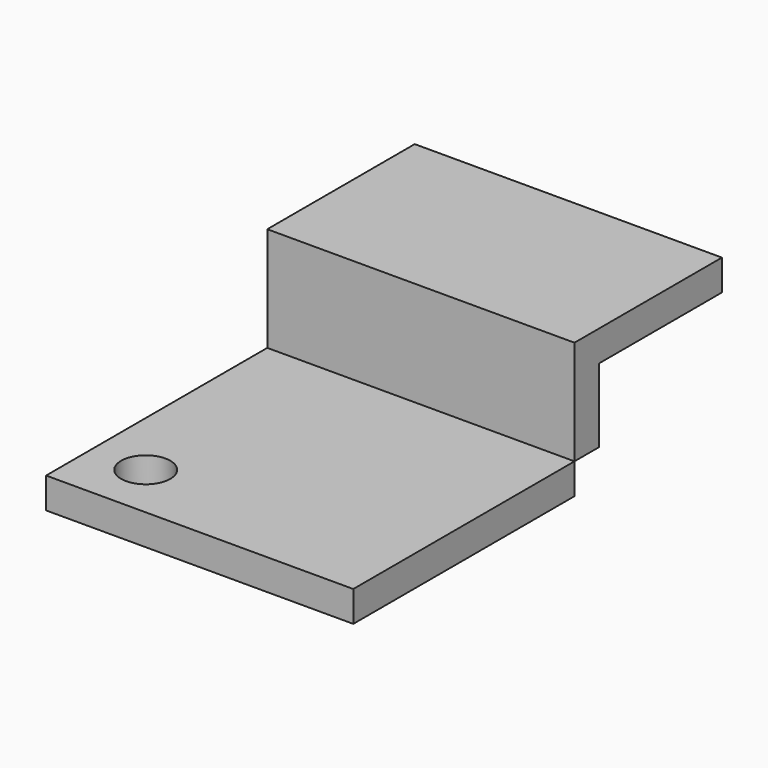
from build123d import *

# Parameters (mm, degrees)
F0_W     = 500
F0_H     = 50.000004
F1_DEPTH = 450
F2_W     = 500
F2_H     = 170
F3_DEPTH = 50
F4_W     = 500
F4_H     = 250
F5_DEPTH = 50
F7_D     = 80


with BuildPart() as f1:
    # F0 (on Front) → F1 (new body)
    with BuildSketch(Plane.XZ):
        with Locations((-250, 25.000002)):
            Rectangle(F0_W, F0_H)
        with Locations((-250, 25.000002)):
            Rectangle(F0_W, F0_H)
    extrude(amount=-F1_DEPTH)

    # F7 (through all)
    with Locations(Plane.XY.offset(50.000004)):
        with Locations((-410.956919, 91.40674)):
            Hole(F7_D / 2)


with BuildPart() as f3:
    # F2 (on face) → F3 (new body)
    with BuildSketch(Plane(origin=(0, 450, 0), x_dir=(-1, 0, 0), z_dir=(0, 1, 0))):
        with Locations((250, 135.000004)):
            Rectangle(F2_W, F2_H)
    extrude(amount=F3_DEPTH)

    # F4 (on face) → F5 (join)
    with BuildSketch(Plane.XY.offset(220.000004)):
        with Locations((-250, 625)):
            Rectangle(F4_W, F4_H)
    extrude(amount=-F5_DEPTH)


solid = Compound([f1.part, f3.part])
